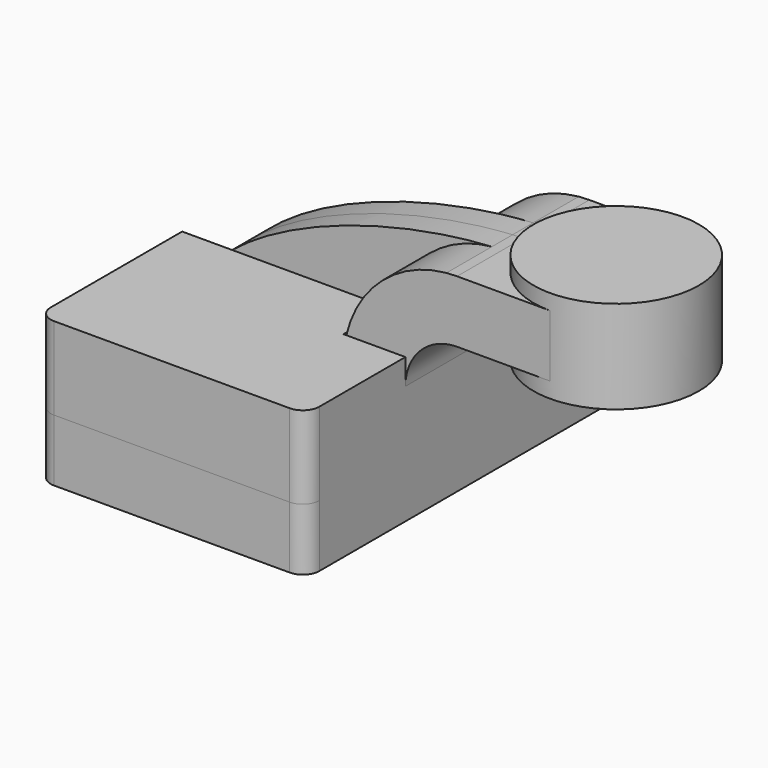
from build123d import *

# Parameters (mm, degrees)
F1_DEPTH = 63.5
F0_W     = 25.4
F0_H     = 19.05
F2_DEPTH = 25.4
F3_DEPTH = 7.9375
F5_R     = 5.08
F6_DEPTH = 25.4


with BuildPart() as f1:
    # F0 (on Front) → F1 (new body, symmetric)
    with BuildSketch(Plane.XZ):
        Polygon((22.225, 9.525), (-41.275, 9.525), (-41.275, -9.525), (41.275, -9.525), (41.275, 9.525), align=None)
    extrude(amount=F1_DEPTH, both=True)

    # F0 (on Front) → F2 (join, symmetric)
    with BuildSketch(Plane.XZ):
        with BuildLine():
            Line((22.225, 27.0002), (22.225, 9.525))
            Line((22.225, 9.525), (41.275, 9.525))
            Line((41.275, 9.525), (41.275, 27.0002))
            ThreePointArc((41.275, 27.0002), (45.9246798487, 38.2255201513), (57.15, 42.8752))
            Line((57.15, 42.8752), (60.325, 42.8752))
            Line((60.325, 42.8752), (60.325, 61.9252))
            Line((60.325, 61.9252), (57.15, 61.9252))
            add(Edge.make_bspline(
                [(53.8854342407, 61.7722898912), (54.9842067368, 61.8365871986), (56.0728453275, 61.8876096574), (57.15, 61.9252)],
                knots=[108.5245810491, 108.5245810491, 108.5245810491, 108.5245810491, 111.5045361635, 111.5045361635, 111.5045361635, 111.5045361635], degree=3))
            ThreePointArc((53.8854342407, 61.7722898912), (31.3258777096, 50.5133948686), (22.225, 27.0002))
        make_face()
        with Locations((73.025, 52.4002)):
            Rectangle(F0_W, F0_H)
    extrude(amount=F2_DEPTH, both=True)

    # F0 (on Front) → F3 (join, symmetric)
    with BuildSketch(Plane.XZ):
        with BuildLine():
            add(Edge.make_bspline(
                [(-41.275, 9.525), (-39.5856284224, 39.4828766469), (13.870125209, 59.4306981306), (53.8854342407, 61.7722898912)],
                knots=[0, 0, 0, 0, 108.5245810491, 108.5245810491, 108.5245810491, 108.5245810491], degree=3))
            Line((-41.275, 9.525), (22.225, 9.525))
            Line((22.225, 9.525), (22.225, 27.0002))
            ThreePointArc((22.225, 27.0002), (31.3258777096, 50.5133948686), (53.8854342407, 61.7722898912))
        make_face()
    extrude(amount=F3_DEPTH, both=True)

    # F0 (on Front) → F4 (revolve)
    with BuildSketch(Plane.XZ):
        Polygon((85.725, 66.675), (85.725, 61.9252), (85.725, 42.8752), (85.725, 38.1), (111.125, 38.1), (111.125, 66.675), align=None)
    revolve(axis=Axis((85.725, 0, 52.3875), (0, 0, 1)))

    # F5
    f5_edges = [f1.edges().sort_by_distance(p)[0] for p in [
        (41.275, -63.5, 0),
        (-41.275, -63.5, 0),
        (41.275, 63.5, 0),
        (-41.275, 63.5, 0),
    ]]
    fillet(f5_edges, radius=F5_R)

    # F6 (add): a face of the model
    f6_faces = [f1.faces().sort_by_distance(p)[0] for p in [
        (-2.489301299, -37.1427700655, 9.525),
    ]]
    extrude(f6_faces, amount=F6_DEPTH)


solid = f1.part
